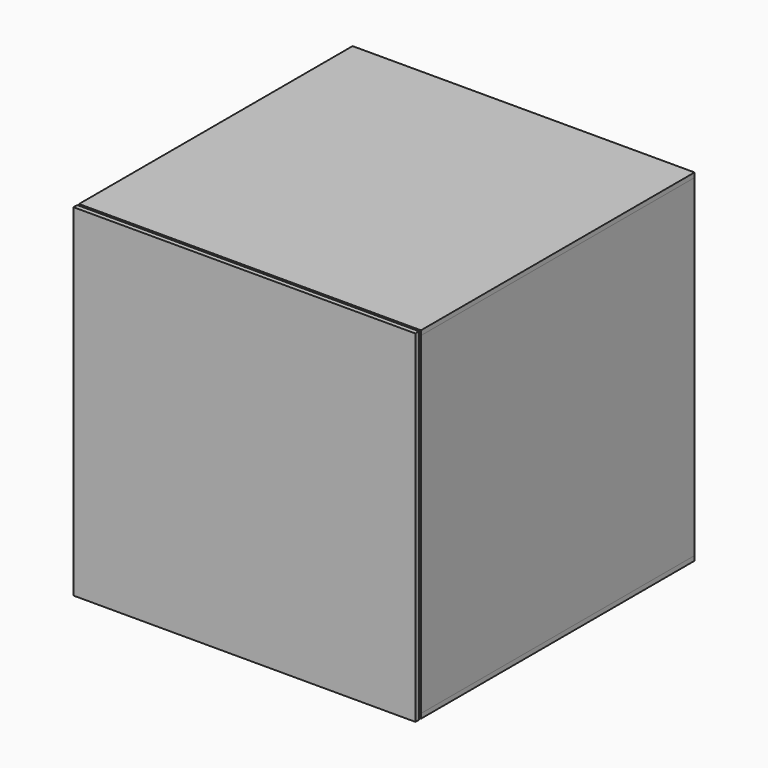
from build123d import *

# Parameters (mm, degrees)
F12_W     = 469.9
F12_H     = 469.9
F13_DEPTH = 6.35
F9_W      = 457.2
F9_H      = 457.2
F14_DEPTH = 6.35
F10_W     = 355.6
F10_H     = 355.6
F16_DEPTH = 6.35
F8_W      = 469.9
F8_H      = 457.2
F8_R      = 19.05
F17_DEPTH = 6.35
F19_DEPTH = 9.525
F7_W      = 469.9
F7_H      = 469.9
F20_DEPTH = 6.35


with BuildPart() as f13:
    # F12 (on offset) → F13 (new body)
    with BuildSketch(Plane.XZ.offset(238.125)):
        Rectangle(F12_W, F12_H)
    extrude(amount=F13_DEPTH)


with BuildPart() as f14:
    # F9 (on offset) → F14 (new body)
    with BuildSketch(Plane.XZ.offset(-228.6)):
        Rectangle(F9_W, F9_H)
    extrude(amount=-F14_DEPTH)


with BuildPart() as f15_1:
    # F15: instance of F14
    add(f14.part.mirror(Plane.XZ))

    # F10 (on offset) → F16 (cut)
    with BuildSketch(Plane.XZ.offset(228.6)):
        Rectangle(F10_W, F10_H)
    extrude(amount=F16_DEPTH, mode=Mode.SUBTRACT)


with BuildPart() as f17:
    # F8 (on offset) → F17 (new body)
    with BuildSketch(Plane.YZ.offset(-228.6)):
        Rectangle(F8_W, F8_H)
        with Locations((184.15, -177.8)):
            Circle(F8_R, mode=Mode.SUBTRACT)
        with Locations((184.15, -177.8)):
            Circle(F8_R)
    extrude(amount=-F17_DEPTH)


with BuildPart() as f18_1:
    # F18: instance of F17
    add(f17.part.mirror(Plane.YZ))


with BuildPart() as f17_1:
    add(f17.part)

    # F8 (on offset) → F19 (cut)
    with BuildSketch(Plane.YZ.offset(-228.6)):
        with Locations((184.15, -177.8)):
            Circle(F8_R)
    extrude(amount=-F19_DEPTH, mode=Mode.SUBTRACT)


with BuildPart() as f20:
    # F7 (on offset) → F20 (new body)
    with BuildSketch(Plane.XY.offset(228.6)):
        Rectangle(F7_W, F7_H)
    extrude(amount=F20_DEPTH)


with BuildPart() as f21_1:
    # F21: instance of F20
    add(f20.part.mirror(Plane.XY))


solid = Compound([f13.part, f14.part, f15_1.part, f18_1.part, f17_1.part, f20.part, f21_1.part])
